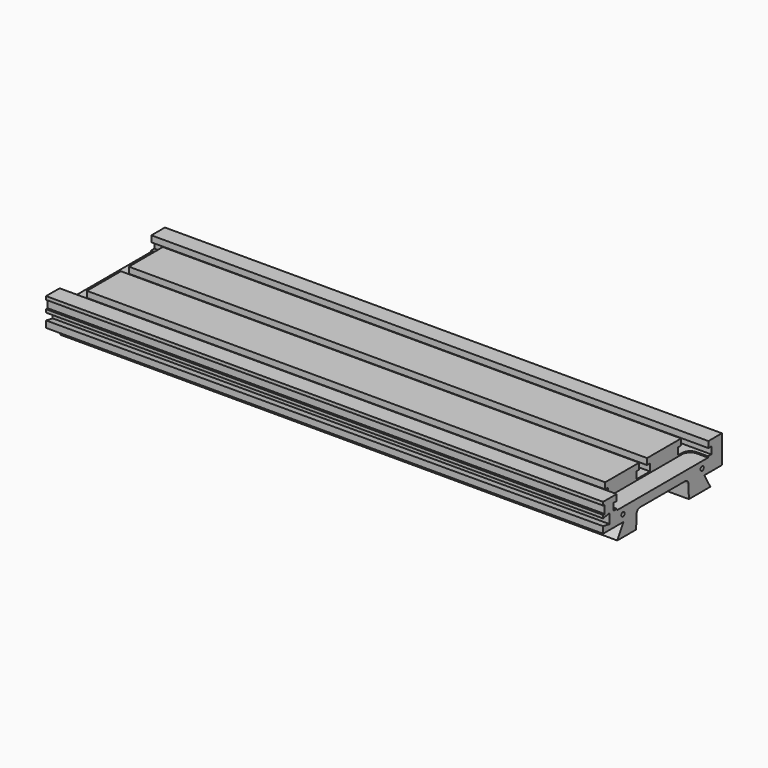
from build123d import *

# Parameters (mm, degrees)
F1_DEPTH      = 337.5
F3_DEPTH      = 1.5
F3_DEPTH_BACK = 16
F5_D          = 5
F5_DEPTH      = 21
F5_TIP        = 1.5021515476
F7_D          = 5
F7_DEPTH      = 21
F7_TIP        = 1.5021515476


with BuildPart() as f1:
    # F0 (on Right) → F1 (new body, symmetric)
    with BuildSketch(Plane.YZ):
        with BuildLine():
            Line((-87.5, 36), (-90, 36))
            Line((-90, 36), (-90, 32.3))
            Line((-90, 32.3), (-80, 34.15))
            Line((-80, 34.15), (-80, 22.15))
            Line((-80, 22.15), (-90, 24))
            Line((-90, 24), (-90, 16))
            Line((-90, 16), (-59.25, 16))
            Line((-59.25, 16), (-68.487604307, 0))
            Line((-68.487604307, 0), (-40, 0))
            Line((-40, 0), (-39.2217531629, 16.7323069968))
            ThreePointArc((-39.2217531629, 16.7323069968), (-37.6795768821, 20.1167343684), (-34.2271527326, 21.5))
            Line((-34.2271527326, 21.5), (34.2271527326, 21.5))
            ThreePointArc((34.2271527326, 21.5), (37.6795768821, 20.1167343684), (39.2217531629, 16.7323069968))
            Line((39.2217531629, 16.7323069968), (40, 0))
            Line((40, 0), (72.487604307, 0))
            Line((72.487604307, 0), (63.25, 16))
            Line((63.25, 16), (90, 16))
            Line((90, 16), (90, 50))
            Line((90, 50), (69.5, 50))
            Line((69.5, 50), (69.5, 42.5))
            Line((69.5, 42.5), (73.875, 42.5))
            Line((73.875, 42.5), (73.875, 34))
            Line((73.875, 34), (53.125, 34))
            Line((53.125, 34), (53.125, 42.5))
            Line((53.125, 42.5), (57.5, 42.5))
            Line((57.5, 42.5), (57.5, 50))
            Line((57.5, 50), (6, 50))
            Line((6, 50), (6, 42.5))
            Line((6, 42.5), (10.375, 42.5))
            Line((10.375, 42.5), (10.375, 34))
            Line((10.375, 34), (-10.375, 34))
            Line((-10.375, 34), (-10.375, 42.5))
            Line((-10.375, 42.5), (-6, 42.5))
            Line((-6, 42.5), (-6, 50))
            Line((-6, 50), (-57.5, 50))
            Line((-57.5, 50), (-57.5, 42.5))
            Line((-57.5, 42.5), (-53.125, 42.5))
            Line((-53.125, 42.5), (-53.125, 34))
            Line((-53.125, 34), (-73.875, 34))
            Line((-73.875, 34), (-73.875, 42.5))
            Line((-73.875, 42.5), (-69.5, 42.5))
            Line((-69.5, 42.5), (-69.5, 50))
            Line((-69.5, 50), (-90, 50))
            Line((-90, 50), (-90, 46))
            Line((-90, 46), (-87.5, 46))
            Line((-87.5, 46), (-87.5, 36))
        make_face()
    extrude(amount=F1_DEPTH, both=True)

    # F2 (on face) → F3 (cut, two sides)
    with BuildSketch(Plane.XY.offset(34)) as f3_sk:
        with BuildLine():
            ThreePointArc((314, -59), (316.9289321881, -66.0710678119), (324, -69))
            Line((324, -69), (337.5, -69))
            Line((337.5, -69), (337.5, 69))
            Line((337.5, 69), (324, 69))
            ThreePointArc((324, 69), (316.9289321881, 66.0710678119), (314, 59))
            Line((314, 59), (314, -59))
        make_face()
        with BuildLine():
            ThreePointArc((-324, -69), (-316.9289321881, -66.0710678119), (-314, -59))
            Line((-314, -59), (-314, 59))
            ThreePointArc((-314, 59), (-316.9289321881, 66.0710678119), (-324, 69))
            Line((-324, 69), (-337.5, 69))
            Line((-337.5, 69), (-337.5, -69))
            Line((-337.5, -69), (-324, -69))
        make_face()
    extrude(amount=-F3_DEPTH, mode=Mode.SUBTRACT)
    extrude(f3_sk.sketch, amount=F3_DEPTH_BACK, mode=Mode.SUBTRACT)

    # F5
    with Locations(Plane.YZ.offset(337.5)):
        with Locations((-60, 24.5), (60, 24.5)):
            Hole(F5_D / 2, depth=F5_DEPTH)
            with Locations((0, 0, -(F5_DEPTH + F5_TIP / 2))):  # 118° drill point
                Cone(0, F5_D / 2, F5_TIP, mode=Mode.SUBTRACT)

    # F7
    with Locations(Plane(origin=(-337.5, 0, 0), x_dir=(0, -1, 0), z_dir=(-1, 0, 0))):
        with Locations((-60, 24.5), (60, 24.5)):
            Hole(F7_D / 2, depth=F7_DEPTH)
            with Locations((0, 0, -(F7_DEPTH + F7_TIP / 2))):  # 118° drill point
                Cone(0, F7_D / 2, F7_TIP, mode=Mode.SUBTRACT)


solid = f1.part
